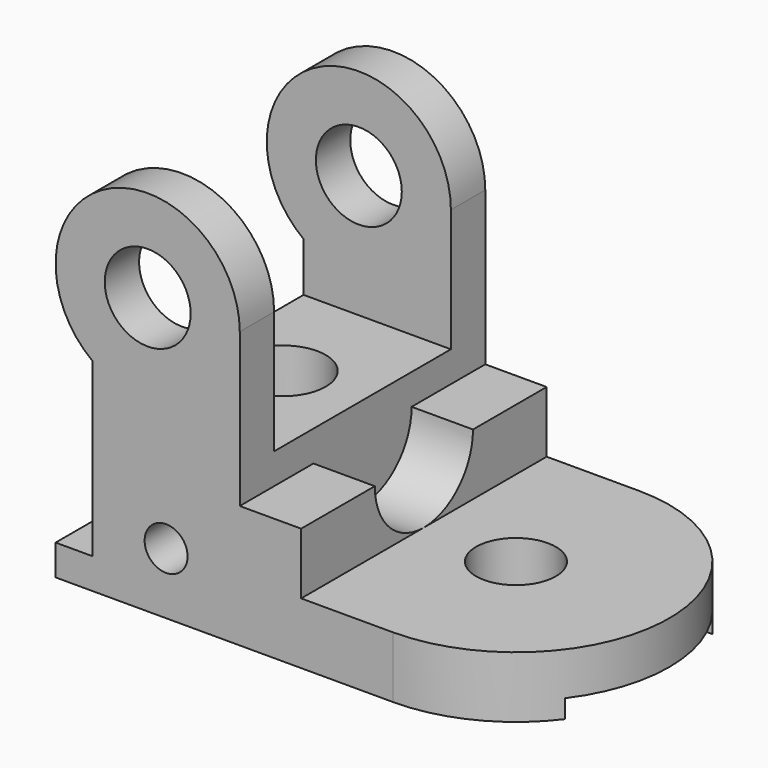
from build123d import *

# Parameters (mm, degrees)
SKETCH_R        = 7
SKETCH_R_2      = 3.5
PAD_DEPTH       = 25
SKETCH001_R     = 25
PAD001_DEPTH    = 10
SKETCH002_W     = 35
SKETCH002_H     = 36
POCKET_DEPTH    = 30.001
SKETCH003_R     = 7
POCKET001_DEPTH = 25
SKETCH004_R     = 6.5
POCKET002_DEPTH = 10
SKETCH005_W     = 10
SKETCH005_H     = 50
PAD002_DEPTH    = 10
SKETCH006_R     = 10
POCKET003_DEPTH = 10
SKETCH007_W     = 3
SKETCH007_H     = 30
POCKET004_DEPTH = 80.001


with BuildPart() as part:
    # Sketch → Pad (new body, symmetric)
    with BuildSketch(Plane.XZ):
        with BuildLine():
            Line((6, 33), (6, 5))
            Line((6, 5), (0, 5))
            Line((0, 5), (0, 0))
            Line((0, 0), (55, 0))
            Line((55, 0), (55, 10))
            Line((55, 10), (30, 10))
            Line((30, 10), (30, 45.000036))
            ThreePointArc((30, 45.000036), (8.29178, 58.4164), (6, 33))
        make_face()
        with Locations((15, 45)):
            Circle(SKETCH_R, mode=Mode.SUBTRACT)
        with Locations((18, 10)):
            Circle(SKETCH_R_2, mode=Mode.SUBTRACT)
    extrude(amount=PAD_DEPTH, both=True)

    # Sketch001 (on Face6 of Pad) → Pad001 (new body)
    with BuildSketch(Plane(origin=(0, 0, 10), x_dir=(-1, 0, 0), z_dir=(0, 0, 1))):
        with Locations((-55, 0)):
            Circle(SKETCH001_R)
    extrude(amount=-PAD001_DEPTH)

    # Sketch002 (on Face6 of Pad001) → Pocket (cut, through all)
    with BuildSketch(Plane(origin=(30, 0, 0), x_dir=(0, 0, 1), z_dir=(1, 0, 0))):
        with Locations((42.5, 0)):
            Rectangle(SKETCH002_W, SKETCH002_H)
    extrude(amount=-POCKET_DEPTH, mode=Mode.SUBTRACT)

    # Sketch003 (on Face7 of Pocket) → Pocket001 (cut)
    with BuildSketch(Plane(origin=(0, 0, 25), x_dir=(-1, 0, 0), z_dir=(0, 0, 1))):
        with Locations((-17, 0)):
            Circle(SKETCH003_R)
    extrude(amount=-POCKET001_DEPTH, mode=Mode.SUBTRACT)

    # Sketch004 (on Face12 of Pocket001) → Pocket002 (cut)
    with BuildSketch(Plane(origin=(0, 0, 10), x_dir=(-1, 0, 0), z_dir=(0, 0, 1))):
        with Locations((-55, 0)):
            Circle(SKETCH004_R)
    extrude(amount=-POCKET002_DEPTH, mode=Mode.SUBTRACT)

    # Sketch005 (on Face10 of Pocket002) → Pad002 (new body)
    with BuildSketch(Plane(origin=(30, 0, 0), x_dir=(0, 0, 1), z_dir=(1, 0, 0))):
        with Locations((15, 0)):
            Rectangle(SKETCH005_W, SKETCH005_H)
    extrude(amount=PAD002_DEPTH)

    # Sketch006 (on Face3 of Pad002) → Pocket003 (cut)
    with BuildSketch(Plane(origin=(40, 0, 0), x_dir=(0, 0, 1), z_dir=(1, 0, 0))):
        with Locations((20, 0)):
            Circle(SKETCH006_R)
    extrude(amount=-POCKET003_DEPTH, mode=Mode.SUBTRACT)

    # Sketch007 (on Face15 of Pocket003) → Pocket004 (cut, through all)
    with BuildSketch(Plane(origin=(0, 0, 0), x_dir=(0, 0, -1), z_dir=(-1, 0, 0))):
        with Locations((-1.5, 0)):
            Rectangle(SKETCH007_W, SKETCH007_H)
    extrude(amount=-POCKET004_DEPTH, mode=Mode.SUBTRACT)


solid = part.part
